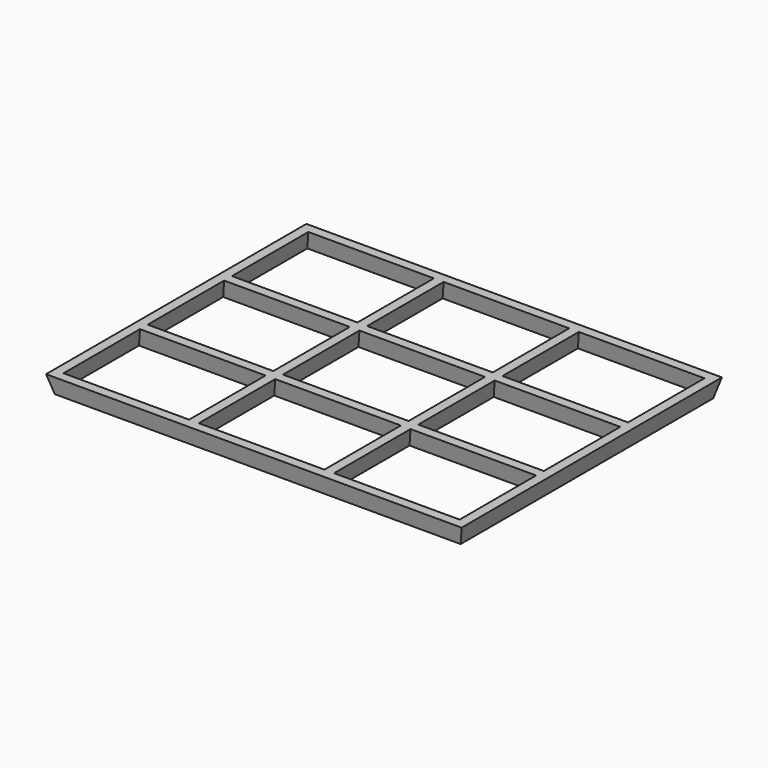
from build123d import *

# Parameters (mm, degrees)
F0_W     = 45
F0_H     = 0.01
F0_W_2   = 0.01
F0_H_2   = 35
F1_DEPTH = 6
F1_TAPER = -15


with BuildPart() as f1:
    # F0 (on Top) → F1 (new body)
    with BuildSketch(Plane.XY):
        with Locations((67.51, 105.025)):
            Rectangle(F0_W, F0_H)
        Polygon((90.02, 0), (90.02, -0.01), (135.03, -0.01), (135.03, 35), (135.02, 35), (135.02, 0), align=None)
        Polygon((-0.01, 105.03), (-0.01, 70.02), (0, 70.02), (0, 105.02), (45, 105.02), (45, 105.03), align=None)
        with Locations((-0.005, 52.51)):
            Rectangle(F0_W_2, F0_H_2)
        Polygon((45, 0), (0, 0), (0, 35), (-0.01, 35), (-0.01, -0.01), (45, -0.01), align=None)
        Polygon((90.02, 105.03), (90.02, 105.02), (135.02, 105.02), (135.02, 70.02), (135.03, 70.02), (135.03, 105.03), align=None)
        with Locations((135.025, 52.51)):
            Rectangle(F0_W_2, F0_H_2)
        with Locations((67.51, -0.005)):
            Rectangle(F0_W, F0_H)
        Polygon((-0.01, 35), (0, 35), (45, 35), (45, 35.01), (0, 35.01), (-0.01, 35.01), align=None)
        with Locations((90.015, 52.51)):
            Rectangle(F0_W_2, F0_H_2)
        Polygon((90.02, 35), (90.01, 35), (90.01, 0), (90.01, -0.01), (90.02, -0.01), (90.02, 0), align=None)
        Polygon((45, 105.02), (45, 70.02), (45.01, 70.02), (45.01, 105.02), (45.01, 105.03), (45, 105.03), align=None)
        Polygon((45, 35), (45, 0), (45, -0.01), (45.01, -0.01), (45.01, 0), (45.01, 35), align=None)
        Polygon((90.01, 105.02), (90.01, 70.02), (90.02, 70.02), (90.02, 105.02), (90.02, 105.03), (90.01, 105.03), align=None)
        with Locations((67.51, 70.015)):
            Rectangle(F0_W, F0_H)
        with Locations((45.005, 52.51)):
            Rectangle(F0_W_2, F0_H_2)
        with Locations((67.51, 35.005)):
            Rectangle(F0_W, F0_H)
        with Locations((45.005, 52.51)):
            Rectangle(F0_W_2, F0_H_2)
        Polygon((90.02, 70.02), (90.02, 70.01), (135.02, 70.01), (135.03, 70.01), (135.03, 70.02), (135.02, 70.02), align=None)
        Polygon((90.02, 35.01), (90.02, 35), (135.02, 35), (135.03, 35), (135.03, 35.01), (135.02, 35.01), align=None)
        Polygon((0, 70.01), (45, 70.01), (45, 70.02), (0, 70.02), (-0.01, 70.02), (-0.01, 70.01), align=None)
        with Locations((45.005, 52.51)):
            Rectangle(F0_W_2, F0_H_2)
        with Locations((90.015, 52.51)):
            Rectangle(F0_W_2, F0_H_2)
        with Locations((90.015, 52.51)):
            Rectangle(F0_W_2, F0_H_2)
        with Locations((90.015, 35.005)):
            Rectangle(F0_W_2, F0_H)
        with Locations((45.005, 70.015)):
            Rectangle(F0_W_2, F0_H)
        with Locations((45.005, 35.005)):
            Rectangle(F0_W_2, F0_H)
        with Locations((90.015, 70.015)):
            Rectangle(F0_W_2, F0_H)
    extrude(amount=F1_DEPTH, taper=F1_TAPER)


solid = f1.part
